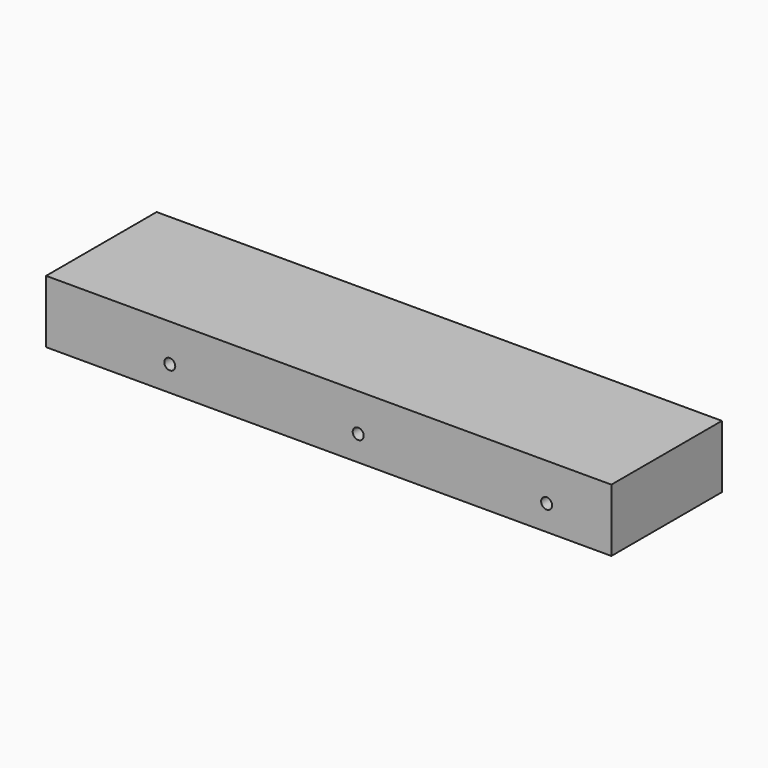
from build123d import *

# Parameters (mm, degrees)
F0_W     = 457.2
F0_H     = 50.8
F1_DEPTH = 55.88
F2_R     = 4.445
F3_DEPTH = 111.76


with BuildPart() as f1:
    # F0 (on Front) → F1 (new body, symmetric)
    with BuildSketch(Plane.XZ):
        Rectangle(F0_W, F0_H)
    extrude(amount=F1_DEPTH, both=True)

    # F2 (on face) → F3 (cut, through all)
    with BuildSketch(Plane.XZ.offset(55.88)):
        with Locations((-128.559027, -5.007562)):
            Circle(F2_R)
        with Locations((23.840973, -5.007562)):
            Circle(F2_R)
        with Locations((176.240973, -5.007562)):
            Circle(F2_R)
    extrude(amount=-F3_DEPTH, mode=Mode.SUBTRACT)


solid = f1.part
